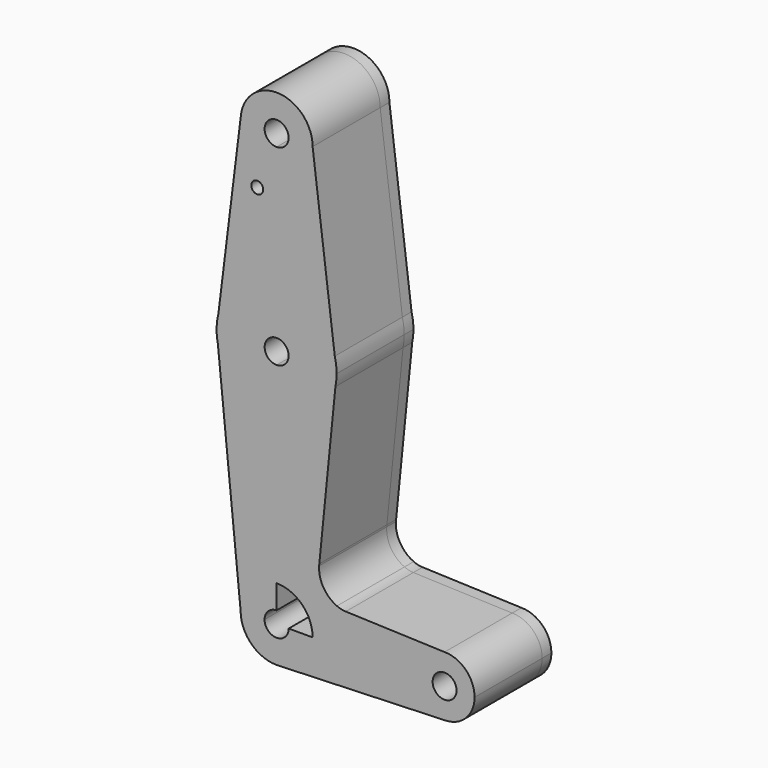
from build123d import *

# Parameters (mm, degrees)
F0_R     = 1.5875
F1_DEPTH = 25.4
F2_DEPTH = 3.048


with BuildPart() as f1:
    # F0 (on Front) → F1 (new body)
    with BuildSketch(Plane.XZ):
        with BuildLine():
            ThreePointArc((-9.4978428488, 84.4119633965), (-6.9846885975, 77.2171194998), (0, 74.1682101567))
            ThreePointArc((0, 74.1682101567), (6.7351920908, 76.9580180659), (9.525, 83.6932101567))
            ThreePointArc((9.525, 83.6932101567), (0.3596330528, 93.2114184475), (-9.4978428488, 84.4119633965))
        make_face()
        with BuildLine():
            ThreePointArc((3.175, 83.6932101567), (2.2450640303, 81.4481461264), (0, 80.5182101567))
            ThreePointArc((0, 80.5182101567), (-2.2450640303, 85.938274187), (3.175, 83.6932101567))
        make_face(mode=Mode.SUBTRACT)
        with BuildLine():
            ThreePointArc((9.525, 83.6932101567), (6.7351920908, 76.9580180659), (0, 74.1682101567))
            Line((0, 74.1682101567), (0, 69.4184101567))
            Line((0, 69.4184101567), (0, 48.7682101567))
            ThreePointArc((0, 48.7682101567), (9.7463072395, 45.4241766075), (15.3865384615, 36.8009024644))
            Line((15.3865384615, 36.8009024644), (9.525, 83.6932101567))
        make_face()
        with BuildLine():
            Line((0, 69.4184101567), (0, 74.1682101567))
            ThreePointArc((0, 74.1682101567), (-6.9846885975, 77.2171194998), (-9.4978428488, 84.4119633965))
            Line((-9.4978428488, 84.4119633965), (-15.3958589716, 36.7640177631))
            ThreePointArc((-15.3958589716, 36.7640177631), (-9.7613153378, 45.4124892045), (0, 48.7682101567))
            Line((0, 48.7682101567), (0, 69.4184101567))
        make_face()
        with Locations((-5.124937529, 69.4184101567)):
            Circle(F0_R, mode=Mode.SUBTRACT)
        with BuildLine():
            ThreePointArc((15.3865384615, 36.8009024644), (9.7463072395, 45.4241766075), (0, 48.7682101567))
            Line((0, 48.7682101567), (0, 36.0568941846))
            ThreePointArc((0, 36.0568941846), (2.2370624297, 35.1302725864), (3.1636840279, 32.8932101567))
            ThreePointArc((3.1636840279, 32.8932101567), (2.2370624297, 30.656147727), (0, 29.7295261288))
            Line((0, 29.7295261288), (0, 17.0182101567))
            ThreePointArc((0, 17.0182101567), (10.0530630624, 20.6069760688), (15.5608549399, 29.7506922904))
            Line((15.5608549399, 29.7506922904), (15.875, 32.8932101567))
            Line((15.875, 32.8932101567), (15.3865384615, 36.8009024644))
        make_face()
        with BuildLine():
            Line((0, 36.0568941846), (0, 48.7682101567))
            ThreePointArc((0, 48.7682101567), (-9.7613153378, 45.4124892045), (-15.3958589716, 36.7640177631))
            Line((-15.3958589716, 36.7640177631), (-15.875, 32.8932101567))
            Line((-15.875, 32.8932101567), (-15.5608549399, 29.7506922904))
            ThreePointArc((-15.5608549399, 29.7506922904), (-10.0530630624, 20.6069760688), (0, 17.0182101567))
            Line((0, 17.0182101567), (0, 29.7295261288))
            ThreePointArc((0, 29.7295261288), (-3.1636840279, 32.8932101567), (0, 36.0568941846))
        make_face()
        with BuildLine():
            Line((-15.875, 32.8932101567), (-15.3958589716, 36.7640177631))
            ThreePointArc((-15.3958589716, 36.7640177631), (-15.7547593789, 34.8433849983), (-15.875, 32.8932101567))
        make_face()
        with BuildLine():
            ThreePointArc((15.875, 32.8932101567), (15.7524112928, 34.8622615683), (15.3865384615, 36.8009024644))
            Line((15.3865384615, 36.8009024644), (15.875, 32.8932101567))
        make_face()
        with BuildLine():
            Line((-15.5608549399, 29.7506922904), (-15.875, 32.8932101567))
            ThreePointArc((-15.875, 32.8932101567), (-15.7962685019, 31.314119781), (-15.5608549399, 29.7506922904))
        make_face()
        with BuildLine():
            ThreePointArc((15.5608549399, 29.7506922904), (15.7962685019, 31.314119781), (15.875, 32.8932101567))
            Line((15.875, 32.8932101567), (15.5608549399, 29.7506922904))
        make_face()
        with BuildLine():
            ThreePointArc((0, 17.0182101567), (-10.0530630624, 20.6069760688), (-15.5608549399, 29.7506922904))
            Line((-15.5608549399, 29.7506922904), (-9.5271565935, -30.6067898433))
            ThreePointArc((-9.5271565935, -30.6067898433), (-6.7367170327, -23.8700728106), (0, -21.0796332498))
            Line((0, -21.0796332498), (0, 17.0182101567))
        make_face()
        with BuildLine():
            Line((11.2983400626, -12.8889377975), (15.5608549399, 29.7506922904))
            ThreePointArc((15.5608549399, 29.7506922904), (10.0530630624, 20.6069760688), (0, 17.0182101567))
            Line((0, 17.0182101567), (0, -21.0796332498))
            ThreePointArc((0, -21.0796332498), (0.3410737199, -21.085740454), (0.6817101619, -21.1040542366))
            ThreePointArc((0.6817101619, -21.1040542366), (6.9735741274, -24.1155667963), (9.5271565935, -30.6067898433))
            Line((9.5271565935, -30.6067898433), (36.5091171516, -30.6067898433))
            ThreePointArc((36.5091171516, -30.6067898433), (38.8332331942, -24.9958773728), (44.4441456647, -22.6717613302))
            Line((44.4441456647, -22.6717613302), (18.2985487274, -21.7351444049))
            ThreePointArc((18.2985487274, -21.7351444049), (17.0992487454, -21.5768820426), (15.9517234628, -21.1940594363))
            ThreePointArc((15.9517234628, -21.1940594363), (12.3718358169, -18.037938808), (11.2472680533, -13.3998314005))
            ThreePointArc((11.2472680533, -13.3998314005), (11.2686743647, -13.14397177), (11.2983400626, -12.8889377975))
        make_face()
        with BuildLine():
            Line((-3.1908159444, -30.6067898433), (-9.5271565935, -30.6067898433))
            ThreePointArc((-9.5271565935, -30.6067898433), (-6.7367170327, -37.343506876), (0, -40.1339464368))
            Line((0, -40.1339464368), (0.6795501516, -40.1096801588))
            ThreePointArc((0.6795501516, -40.1096801588), (6.9728363477, -37.0988054028), (9.5271565935, -30.6067898433))
            Line((9.5271565935, -30.6067898433), (3.1908159444, -30.6067898433))
            ThreePointArc((3.1908159444, -30.6067898433), (0, -33.7976057877), (-3.1908159444, -30.6067898433))
        make_face()
        with BuildLine():
            ThreePointArc((0, -21.0796332498), (-6.7367170327, -23.8700728106), (-9.5271565935, -30.6067898433))
            Line((-9.5271565935, -30.6067898433), (-3.1908159444, -30.6067898433))
            ThreePointArc((-3.1908159444, -30.6067898433), (-2.2562475918, -28.3505422515), (0, -27.4159738989))
            Line((0, -27.4159738989), (0, -21.0796332498))
        make_face()
        with BuildLine():
            Line((11.2472680533, -13.3998314005), (11.2983400626, -12.8889377975))
            ThreePointArc((11.2983400626, -12.8889377975), (11.2686743647, -13.14397177), (11.2472680533, -13.3998314005))
        make_face()
        with BuildLine():
            Line((0.6795501516, -40.1096801588), (0, -40.1339464368))
            ThreePointArc((0, -40.1339464368), (0.3399916399, -40.1278779346), (0.6795501516, -40.1096801588))
        make_face()
        with BuildLine():
            ThreePointArc((9.5271565935, -30.6067898433), (6.9728363477, -37.0988054028), (0.6795501516, -40.1096801588))
            Line((0.6795501516, -40.1096801588), (44.7273196978, -38.5367639902))
            ThreePointArc((44.7273196978, -38.5367639902), (38.9342598457, -36.3169418348), (36.5091171516, -30.6067898433))
            Line((36.5091171516, -30.6067898433), (9.5271565935, -30.6067898433))
        make_face()
        with BuildLine():
            ThreePointArc((36.5091171516, -30.6067898433), (38.9342598457, -36.3169418348), (44.7273196978, -38.5367639902))
            ThreePointArc((44.7273196978, -38.5367639902), (50.1542976561, -36.1166756623), (52.3791741778, -30.6067898433))
            ThreePointArc((52.3791741778, -30.6067898433), (50.0550581352, -24.9958773728), (44.4441456647, -22.6717613302))
            ThreePointArc((44.4441456647, -22.6717613302), (38.8332331942, -24.9958773728), (36.5091171516, -30.6067898433))
        make_face()
        with BuildLine():
            ThreePointArc((47.6147016308, -30.6067898433), (44.4441456647, -33.7773458094), (41.2735896986, -30.6067898433))
            ThreePointArc((41.2735896986, -30.6067898433), (44.4441456647, -27.4362338772), (47.6147016308, -30.6067898433))
        make_face(mode=Mode.SUBTRACT)
    extrude(amount=F1_DEPTH)


with BuildPart() as f2:
    # F0 (on Front) → F2 (new body)
    with BuildSketch(Plane.XZ):
        with BuildLine():
            ThreePointArc((-9.4978428488, 84.4119633965), (-6.9846885975, 77.2171194998), (0, 74.1682101567))
            ThreePointArc((0, 74.1682101567), (6.7351920908, 76.9580180659), (9.525, 83.6932101567))
            ThreePointArc((9.525, 83.6932101567), (0.3596330528, 93.2114184475), (-9.4978428488, 84.4119633965))
        make_face()
        with BuildLine():
            ThreePointArc((3.175, 83.6932101567), (2.2450640303, 81.4481461264), (0, 80.5182101567))
            ThreePointArc((0, 80.5182101567), (-2.2450640303, 85.938274187), (3.175, 83.6932101567))
        make_face(mode=Mode.SUBTRACT)
        with BuildLine():
            ThreePointArc((9.525, 83.6932101567), (6.7351920908, 76.9580180659), (0, 74.1682101567))
            Line((0, 74.1682101567), (0, 69.4184101567))
            Line((0, 69.4184101567), (0, 48.7682101567))
            ThreePointArc((0, 48.7682101567), (9.7463072395, 45.4241766075), (15.3865384615, 36.8009024644))
            Line((15.3865384615, 36.8009024644), (9.525, 83.6932101567))
        make_face()
        with BuildLine():
            Line((0, 69.4184101567), (0, 74.1682101567))
            ThreePointArc((0, 74.1682101567), (-6.9846885975, 77.2171194998), (-9.4978428488, 84.4119633965))
            Line((-9.4978428488, 84.4119633965), (-15.3958589716, 36.7640177631))
            ThreePointArc((-15.3958589716, 36.7640177631), (-9.7613153378, 45.4124892045), (0, 48.7682101567))
            Line((0, 48.7682101567), (0, 69.4184101567))
        make_face()
        with Locations((-5.124937529, 69.4184101567)):
            Circle(F0_R, mode=Mode.SUBTRACT)
        with BuildLine():
            ThreePointArc((15.3865384615, 36.8009024644), (9.7463072395, 45.4241766075), (0, 48.7682101567))
            Line((0, 48.7682101567), (0, 36.0568941846))
            ThreePointArc((0, 36.0568941846), (2.2370624297, 35.1302725864), (3.1636840279, 32.8932101567))
            ThreePointArc((3.1636840279, 32.8932101567), (2.2370624297, 30.656147727), (0, 29.7295261288))
            Line((0, 29.7295261288), (0, 17.0182101567))
            ThreePointArc((0, 17.0182101567), (10.0530630624, 20.6069760688), (15.5608549399, 29.7506922904))
            Line((15.5608549399, 29.7506922904), (15.875, 32.8932101567))
            Line((15.875, 32.8932101567), (15.3865384615, 36.8009024644))
        make_face()
        with BuildLine():
            Line((0, 36.0568941846), (0, 48.7682101567))
            ThreePointArc((0, 48.7682101567), (-9.7613153378, 45.4124892045), (-15.3958589716, 36.7640177631))
            Line((-15.3958589716, 36.7640177631), (-15.875, 32.8932101567))
            Line((-15.875, 32.8932101567), (-15.5608549399, 29.7506922904))
            ThreePointArc((-15.5608549399, 29.7506922904), (-10.0530630624, 20.6069760688), (0, 17.0182101567))
            Line((0, 17.0182101567), (0, 29.7295261288))
            ThreePointArc((0, 29.7295261288), (-3.1636840279, 32.8932101567), (0, 36.0568941846))
        make_face()
        with BuildLine():
            Line((-15.875, 32.8932101567), (-15.3958589716, 36.7640177631))
            ThreePointArc((-15.3958589716, 36.7640177631), (-15.7547593789, 34.8433849983), (-15.875, 32.8932101567))
        make_face()
        with BuildLine():
            ThreePointArc((15.875, 32.8932101567), (15.7524112928, 34.8622615683), (15.3865384615, 36.8009024644))
            Line((15.3865384615, 36.8009024644), (15.875, 32.8932101567))
        make_face()
        with BuildLine():
            Line((-15.5608549399, 29.7506922904), (-15.875, 32.8932101567))
            ThreePointArc((-15.875, 32.8932101567), (-15.7962685019, 31.314119781), (-15.5608549399, 29.7506922904))
        make_face()
        with BuildLine():
            ThreePointArc((15.5608549399, 29.7506922904), (15.7962685019, 31.314119781), (15.875, 32.8932101567))
            Line((15.875, 32.8932101567), (15.5608549399, 29.7506922904))
        make_face()
        with BuildLine():
            ThreePointArc((0, 17.0182101567), (-10.0530630624, 20.6069760688), (-15.5608549399, 29.7506922904))
            Line((-15.5608549399, 29.7506922904), (-9.5271565935, -30.6067898433))
            ThreePointArc((-9.5271565935, -30.6067898433), (-6.7367170327, -23.8700728106), (0, -21.0796332498))
            Line((0, -21.0796332498), (0, 17.0182101567))
        make_face()
        with BuildLine():
            Line((11.2983400626, -12.8889377975), (15.5608549399, 29.7506922904))
            ThreePointArc((15.5608549399, 29.7506922904), (10.0530630624, 20.6069760688), (0, 17.0182101567))
            Line((0, 17.0182101567), (0, -21.0796332498))
            ThreePointArc((0, -21.0796332498), (0.3410737199, -21.085740454), (0.6817101619, -21.1040542366))
            ThreePointArc((0.6817101619, -21.1040542366), (6.9735741274, -24.1155667963), (9.5271565935, -30.6067898433))
            Line((9.5271565935, -30.6067898433), (36.5091171516, -30.6067898433))
            ThreePointArc((36.5091171516, -30.6067898433), (38.8332331942, -24.9958773728), (44.4441456647, -22.6717613302))
            Line((44.4441456647, -22.6717613302), (18.2985487274, -21.7351444049))
            ThreePointArc((18.2985487274, -21.7351444049), (17.0992487454, -21.5768820426), (15.9517234628, -21.1940594363))
            ThreePointArc((15.9517234628, -21.1940594363), (12.3718358169, -18.037938808), (11.2472680533, -13.3998314005))
            ThreePointArc((11.2472680533, -13.3998314005), (11.2686743647, -13.14397177), (11.2983400626, -12.8889377975))
        make_face()
        with BuildLine():
            Line((-3.1908159444, -30.6067898433), (-9.5271565935, -30.6067898433))
            ThreePointArc((-9.5271565935, -30.6067898433), (-6.7367170327, -37.343506876), (0, -40.1339464368))
            Line((0, -40.1339464368), (0.6795501516, -40.1096801588))
            ThreePointArc((0.6795501516, -40.1096801588), (6.9728363477, -37.0988054028), (9.5271565935, -30.6067898433))
            Line((9.5271565935, -30.6067898433), (3.1908159444, -30.6067898433))
            ThreePointArc((3.1908159444, -30.6067898433), (0, -33.7976057877), (-3.1908159444, -30.6067898433))
        make_face()
        with BuildLine():
            ThreePointArc((0, -21.0796332498), (-6.7367170327, -23.8700728106), (-9.5271565935, -30.6067898433))
            Line((-9.5271565935, -30.6067898433), (-3.1908159444, -30.6067898433))
            ThreePointArc((-3.1908159444, -30.6067898433), (-2.2562475918, -28.3505422515), (0, -27.4159738989))
            Line((0, -27.4159738989), (0, -21.0796332498))
        make_face()
        with BuildLine():
            Line((11.2472680533, -13.3998314005), (11.2983400626, -12.8889377975))
            ThreePointArc((11.2983400626, -12.8889377975), (11.2686743647, -13.14397177), (11.2472680533, -13.3998314005))
        make_face()
        with BuildLine():
            Line((0.6795501516, -40.1096801588), (0, -40.1339464368))
            ThreePointArc((0, -40.1339464368), (0.3399916399, -40.1278779346), (0.6795501516, -40.1096801588))
        make_face()
        with BuildLine():
            ThreePointArc((9.5271565935, -30.6067898433), (6.9728363477, -37.0988054028), (0.6795501516, -40.1096801588))
            Line((0.6795501516, -40.1096801588), (44.7273196978, -38.5367639902))
            ThreePointArc((44.7273196978, -38.5367639902), (38.9342598457, -36.3169418348), (36.5091171516, -30.6067898433))
            Line((36.5091171516, -30.6067898433), (9.5271565935, -30.6067898433))
        make_face()
        with BuildLine():
            ThreePointArc((36.5091171516, -30.6067898433), (38.9342598457, -36.3169418348), (44.7273196978, -38.5367639902))
            ThreePointArc((44.7273196978, -38.5367639902), (50.1542976561, -36.1166756623), (52.3791741778, -30.6067898433))
            ThreePointArc((52.3791741778, -30.6067898433), (50.0550581352, -24.9958773728), (44.4441456647, -22.6717613302))
            ThreePointArc((44.4441456647, -22.6717613302), (38.8332331942, -24.9958773728), (36.5091171516, -30.6067898433))
        make_face()
        with BuildLine():
            ThreePointArc((47.6147016308, -30.6067898433), (44.4441456647, -33.7773458094), (41.2735896986, -30.6067898433))
            ThreePointArc((41.2735896986, -30.6067898433), (44.4441456647, -27.4362338772), (47.6147016308, -30.6067898433))
        make_face(mode=Mode.SUBTRACT)
    extrude(amount=F2_DEPTH)


solid = Compound([f1.part, f2.part])
